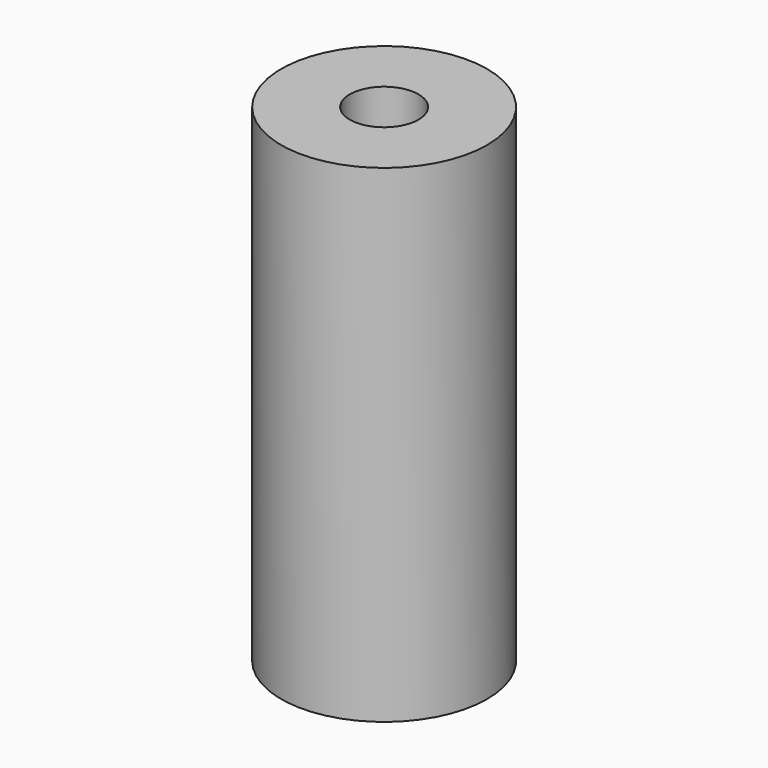
from build123d import *

# Parameters (mm, degrees)
SKETCH_R   = 1.5
SKETCH_R_2 = 0.5
PAD_DEPTH  = 7.1


with BuildPart() as part:
    # Sketch → Pad (new body)
    with BuildSketch(Plane.XY):
        Circle(SKETCH_R)
        Circle(SKETCH_R_2, mode=Mode.SUBTRACT)
    extrude(amount=PAD_DEPTH)


solid = part.part
